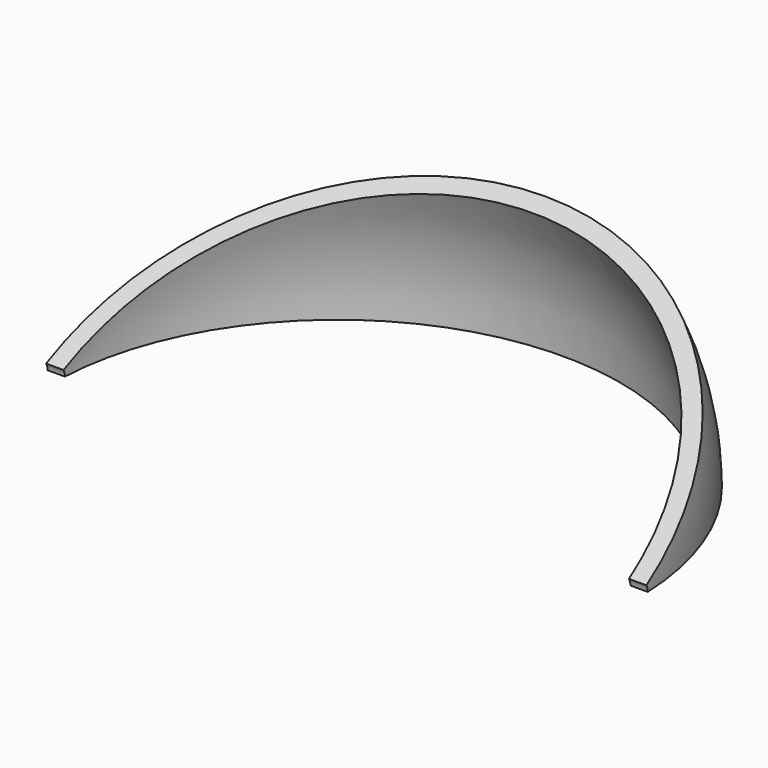
from build123d import *

# Parameters (mm, degrees)
F1_ANGLE      = 30
F2_R          = 3.81
F3_DEPTH      = 87.631
F3_DEPTH_BACK = 87.631
F4_W          = 5.08
F4_H          = 7.62
F5_DEPTH      = 2.54


with BuildPart() as f1:
    # F0 (on Top) → F1 (revolve)
    with BuildSketch(Plane.XY):
        with BuildLine():
            Line((-87.63, 0), (-82.55, 0))
            ThreePointArc((-82.55, 0), (0, 82.55), (82.55, 0))
            Line((82.55, 0), (87.63, 0))
            ThreePointArc((87.63, 0), (0, 87.63), (-87.63, 0))
        make_face()
    revolve(axis=Axis((-41.275, 0, 0), (1, 0, 0)), revolution_arc=F1_ANGLE)

    # F2 (on Right) → F3 (cut, two sides)
    with BuildSketch(Plane.YZ) as f3_sk:
        Circle(F2_R)
    extrude(amount=-F3_DEPTH, mode=Mode.SUBTRACT)
    extrude(f3_sk.sketch, amount=F3_DEPTH_BACK, mode=Mode.SUBTRACT)

    # F4 (on Top) → F5 (join)
    with BuildSketch(Plane.XY):
        with Locations((0, 91.4031806706)):
            Rectangle(F4_W, F4_H)
    extrude(amount=F5_DEPTH)


solid = f1.part
